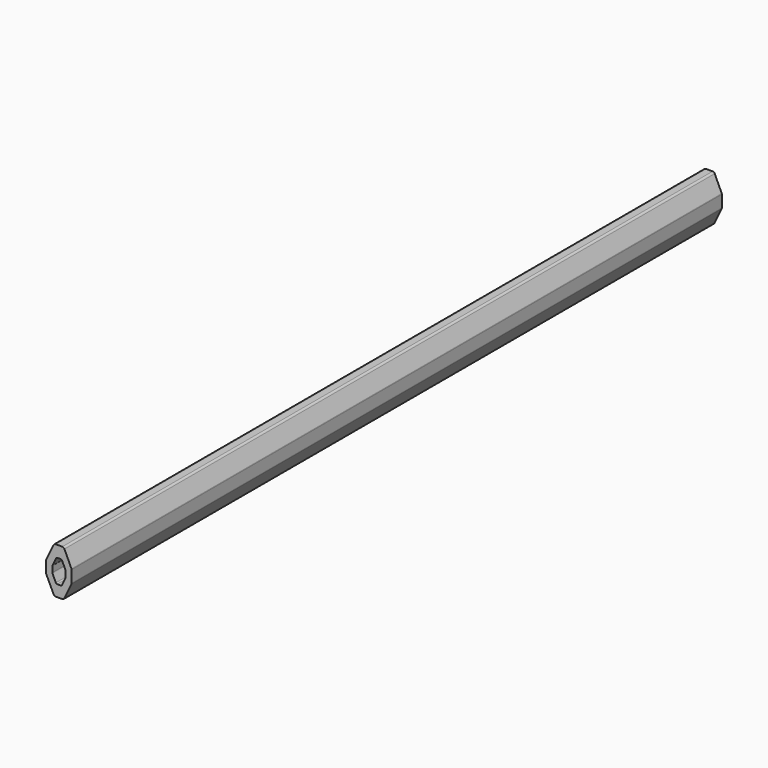
from build123d import *

# Parameters (mm, degrees)
F1_DEPTH = 140
F2_R     = 0.4
F3_R     = 0.25
F4_R     = 0.15


with BuildPart() as f1:
    # F0 (on Front) → F1 (new body)
    with BuildSketch(Plane.XZ):
        Polygon((1.4127, 7.95), (0, 5.055815), (0, 2.962603), (1.4127, 0), (3.0327, 0), (4.4, 2.865815), (4.4, 5.055815), (3.051512, 7.95), align=None)
        Polygon((1.072888, 3.410815), (1.072888, 4.510815), (1.789046, 5.978), (2.689283, 5.978), (3.372888, 4.510815), (3.372888, 3.410815), (2.689283, 1.978), (1.756118, 1.978), align=None, mode=Mode.SUBTRACT)
    extrude(amount=F1_DEPTH)

    # F2
    f2_edges = [f1.edges().sort_by_distance(p)[0] for p in [
        (3.051512, -70, 7.95),
        (1.4127, -70, 7.95),
        (3.0327, -70, 0),
        (1.4127, -70, 0),
    ]]
    fillet(f2_edges, radius=F2_R)

    # F3
    f3_edges = [f1.edges().sort_by_distance(p)[0] for p in [
        (4.4, -70, 5.055815),
        (4.4, -70, 2.865815),
        (0, -70, 5.055815),
        (0, -70, 2.962603),
        (1.756118, -70, 1.978),
        (1.789046, -70, 5.978),
        (2.689283, -70, 5.978),
        (2.689283, -70, 1.978),
    ]]
    fillet(f3_edges, radius=F3_R)

    # F4
    f4_edges = [f1.edges().sort_by_distance(p)[0] for p in [
        (1.072888, -70, 4.510815),
        (1.072888, -70, 3.410815),
        (3.372888, -70, 4.510815),
        (3.372888, -70, 3.410815),
    ]]
    fillet(f4_edges, radius=F4_R)


solid = f1.part
